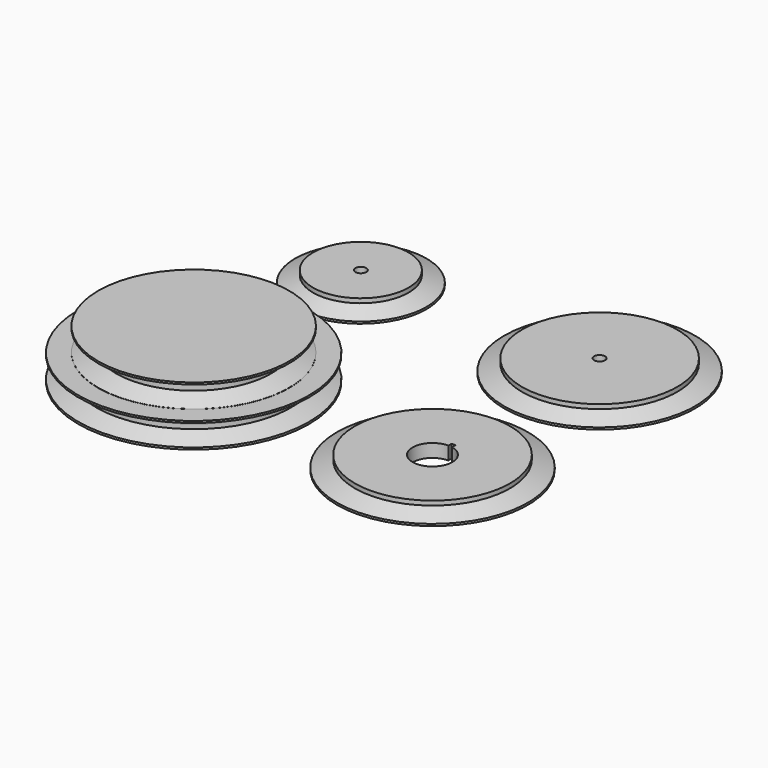
from build123d import *

# Parameters (mm, degrees)
REVOLVE_ONTO_SKETCH_ROLL_ANGLE       = 90
REVOLVE002_ONTO_SKETCH001_ROLL_ANGLE = 90
REVOLVE003_ONTO_SKETCH003_ROLL_ANGLE = 90
REVOLVE004_ONTO_SKETCH002_ROLL_ANGLE = 90
CYLINDER002_R                        = 49
CYLINDER002_DEPTH                    = 10
BOX_W                                = 2
BOX_H                                = 12
BOX_DEPTH                            = 20
CYLINDER001_R                        = 10
CYLINDER001_DEPTH                    = 20
REVOLVE006_ONTO_SKETCH004_ROLL_ANGLE = 90
CYLINDER003_R                        = 59
CYLINDER003_DEPTH                    = 10
CYLINDER004_R                        = 10
CYLINDER004_DEPTH                    = 20
BOX001_W                             = 2
BOX001_H                             = 12
BOX001_DEPTH                         = 20
REVOLVE007_ONTO_SKETCH005_ROLL_ANGLE = 90
BOX002_W                             = 2
BOX002_H                             = 12
BOX002_DEPTH                         = 20
CYLINDER005_R                        = 10
CYLINDER005_DEPTH                    = 20
CYLINDER006_R                        = 48.5
CYLINDER006_DEPTH                    = 2
CYLINDER007_R                        = 2.75
CYLINDER007_DEPTH                    = 20
CYLINDER008_R                        = 49
CYLINDER008_DEPTH                    = 10
REVOLVE008_ONTO_SKETCH006_ROLL_ANGLE = 90
CYLINDER009_R                        = 2.75
CYLINDER009_DEPTH                    = 20
CYLINDER010_R                        = 32.5
CYLINDER010_DEPTH                    = 2
CYLINDER012_R                        = 2.75
CYLINDER012_DEPTH                    = 10
CYLINDER011_R                        = 35
CYLINDER011_DEPTH                    = 10
REVOLVE009_ONTO_SKETCH007_ROLL_ANGLE = 90


with BuildPart() as revolve_body:
    # Sketch as drawn → Revolve (revolve)
    with BuildSketch(Plane.XY):
        Polygon((-8, 5.381547), (1, 2), (1, -2), (-8, -5.397897), (-8, -6.40963), (24.991922, -6.40963), (24.991922, 6.336611), (-8, 6.336611), align=None)
    revolve(axis=Axis((24.991922, 6.336611, 0), (0, 1, 0)))


with BuildPart() as revolve_body_1:
    # Revolve onto Sketch roll: moved
    add(revolve_body.part.rotate(Axis((0, 0, 0), (1, 0, 0)), REVOLVE_ONTO_SKETCH_ROLL_ANGLE))


with BuildPart() as revolve_body_2:
    # Revolve onto Sketch placement: moved
    add(revolve_body_1.part)


with BuildPart() as revolve_body_3:
    # Revolve placement: moved
    add(revolve_body_2.part.moved(Location((-25, 0, 11.8))))


with BuildPart() as revolve002:
    # Sketch001 as drawn → Revolve002 (revolve)
    with BuildSketch(Plane.XY):
        Polygon((-8, 5.381547), (1, 2), (1, -2), (-8, -5.397897), (-8, -6.40963), (40, -6.40963), (40, 6.336611), (-8, 6.336611), align=None)
    revolve(axis=Axis((40, 6.336611, 0), (0, 1, 0)))


with BuildPart() as revolve002_1:
    # Revolve002 onto Sketch001 roll: moved
    add(revolve002.part.rotate(Axis((0, 0, 0), (1, 0, 0)), REVOLVE002_ONTO_SKETCH001_ROLL_ANGLE))


with BuildPart() as revolve002_2:
    # Revolve002 onto Sketch001 placement: moved
    add(revolve002_1.part)


with BuildPart() as revolve002_3:
    # Revolve002 placement: moved
    add(revolve002_2.part.moved(Location((-40, 0, 11.8))))


with BuildPart() as revolve003:
    # Sketch003 as drawn → Revolve003 (revolve)
    with BuildSketch(Plane.XY):
        Polygon((-8, 5.381547), (1, 2), (1, -2), (-8, -5.397897), (-8, -6.40963), (40, -6.40963), (40, 6.336611), (-8, 6.336611), align=None)
    revolve(axis=Axis((40, 6.336611, 0), (0, 1, 0)))


with BuildPart() as revolve003_1:
    # Revolve003 onto Sketch003 roll: moved
    add(revolve003.part.rotate(Axis((0, 0, 0), (1, 0, 0)), REVOLVE003_ONTO_SKETCH003_ROLL_ANGLE))


with BuildPart() as revolve003_2:
    # Revolve003 onto Sketch003 placement: moved
    add(revolve003_1.part)


with BuildPart() as revolve003_3:
    # Revolve003 placement: moved
    add(revolve003_2.part.moved(Location((-40, 0, 0))))


with BuildPart() as revolve004:
    # Sketch002 as drawn → Revolve004 (revolve)
    with BuildSketch(Plane.XY):
        Polygon((-8, 5.381547), (1, 2), (1, -2), (-8, -5.397897), (-8, -6.40963), (50, -6.40963), (50, 6.336611), (-8, 6.336611), align=None)
    revolve(axis=Axis((50, 6.336611, 0), (0, 1, 0)))


with BuildPart() as revolve004_1:
    # Revolve004 onto Sketch002 roll: moved
    add(revolve004.part.rotate(Axis((0, 0, 0), (1, 0, 0)), REVOLVE004_ONTO_SKETCH002_ROLL_ANGLE))


with BuildPart() as revolve004_2:
    # Revolve004 onto Sketch002 placement: moved
    add(revolve004_1.part)


with BuildPart() as revolve004_3:
    # Revolve004 placement: moved
    add(revolve004_2.part.moved(Location((-50, 0, 0))))


with BuildPart() as zylinder002:
    # Cylinder002 → Cylinder002 (new body)
    with BuildSketch(Plane.XY.offset(0.2)):
        Circle(CYLINDER002_R)
    extrude(amount=CYLINDER002_DEPTH)


with BuildPart() as obj1:
    # Box → Box (new body)
    with BuildSketch(Plane.XY.offset(-10)):
        with Locations((1, 6)):
            Rectangle(BOX_W, BOX_H)
    extrude(amount=BOX_DEPTH)


with BuildPart() as zylinder001:
    # Cylinder001 → Cylinder001 (new body)
    with BuildSketch(Plane.XY.offset(-10)):
        Circle(CYLINDER001_R)
    extrude(amount=CYLINDER001_DEPTH)


with BuildPart() as cut003:
    # Sketch004 as drawn → Revolve006 (revolve)
    with BuildSketch(Plane.XY):
        Polygon((-8, 5.381547), (1, 2), (1, -2), (-8, -5.397897), (-8, -6.40963), (40, -6.40963), (40, 6.336611), (-8, 6.336611), align=None)
    revolve(axis=Axis((40, 6.336611, 0), (0, 1, 0)))


with BuildPart() as cut003_1:
    # Revolve006 onto Sketch004 roll: moved
    add(cut003.part.rotate(Axis((0, 0, 0), (1, 0, 0)), REVOLVE006_ONTO_SKETCH004_ROLL_ANGLE))


with BuildPart() as cut003_2:
    # Revolve006 onto Sketch004 placement: moved
    add(cut003_1.part)


with BuildPart() as cut003_3:
    # Revolve006 placement: moved
    add(cut003_2.part.moved(Location((-40, 0, 0))))

    # Cut001: cut Zylinder001
    add(zylinder001.part, mode=Mode.SUBTRACT)

    # Cut002: cut obj1
    add(obj1.part, mode=Mode.SUBTRACT)

    # Cut003: cut Zylinder002
    add(zylinder002.part, mode=Mode.SUBTRACT)


with BuildPart() as cut003_4:
    # Cut003 placement: moved
    add(cut003_3.part.moved(Location((120, 0, 0))))


with BuildPart() as zylinder003:
    # Cylinder003 → Cylinder003 (new body)
    with BuildSketch(Plane.XY.offset(0.2)):
        Circle(CYLINDER003_R)
    extrude(amount=CYLINDER003_DEPTH)


with BuildPart() as zylinder004:
    # Cylinder004 → Cylinder004 (new body)
    with BuildSketch(Plane.XY.offset(-10)):
        Circle(CYLINDER004_R)
    extrude(amount=CYLINDER004_DEPTH)


with BuildPart() as fusion002:
    # Box001 → Box001 (new body)
    with BuildSketch(Plane.XY.offset(-10)):
        with Locations((1, 6)):
            Rectangle(BOX001_W, BOX001_H)
    extrude(amount=BOX001_DEPTH)

    # Fusion002: union Zylinder004
    add(zylinder004.part)


with BuildPart() as f_50mm_half:
    # Sketch005 as drawn → Revolve007 (revolve)
    with BuildSketch(Plane.XY):
        Polygon((-8, 5.381547), (1, 2), (1, -2), (-8, -5.397897), (-8, -6.40963), (50, -6.40963), (50, 6.336611), (-8, 6.336611), align=None)
    revolve(axis=Axis((50, 6.336611, 0), (0, 1, 0)))


with BuildPart() as f_50mm_half_1:
    # Revolve007 onto Sketch005 roll: moved
    add(f_50mm_half.part.rotate(Axis((0, 0, 0), (1, 0, 0)), REVOLVE007_ONTO_SKETCH005_ROLL_ANGLE))


with BuildPart() as f_50mm_half_2:
    # Revolve007 onto Sketch005 placement: moved
    add(f_50mm_half_1.part)


with BuildPart() as f_50mm_half_3:
    # Revolve007 placement: moved
    add(f_50mm_half_2.part.moved(Location((-50, 0, 0))))

    # Cut004: cut Fusion002
    add(fusion002.part, mode=Mode.SUBTRACT)

    # Cut005: cut Zylinder003
    add(zylinder003.part, mode=Mode.SUBTRACT)


with BuildPart() as obj2:
    # Box002 → Box002 (new body)
    with BuildSketch(Plane.XY.offset(-10)):
        with Locations((1, 6)):
            Rectangle(BOX002_W, BOX002_H)
    extrude(amount=BOX002_DEPTH)


with BuildPart() as fusion003:
    # Cylinder005 → Cylinder005 (new body)
    with BuildSketch(Plane.XY.offset(-10)):
        Circle(CYLINDER005_R)
    extrude(amount=CYLINDER005_DEPTH)

    # Fusion003: union obj2
    add(obj2.part)


with BuildPart() as dist_40mm:
    # Cylinder006 → Cylinder006 (new body)
    with BuildSketch(Plane.XY.offset(0.2)):
        Circle(CYLINDER006_R)
    extrude(amount=CYLINDER006_DEPTH)

    # Cut006: cut Fusion003
    add(fusion003.part, mode=Mode.SUBTRACT)


with BuildPart() as zylinder007:
    # Cylinder007 → Cylinder007 (new body)
    with BuildSketch(Plane.XY.offset(-10)):
        Circle(CYLINDER007_R)
    extrude(amount=CYLINDER007_DEPTH)


with BuildPart() as zylinder008:
    # Cylinder008 → Cylinder008 (new body)
    with BuildSketch(Plane.XY.offset(0.2)):
        Circle(CYLINDER008_R)
    extrude(amount=CYLINDER008_DEPTH)


with BuildPart() as cut008:
    # Sketch006 as drawn → Revolve008 (revolve)
    with BuildSketch(Plane.XY):
        Polygon((-8, 5.381547), (1, 2), (1, -2), (-8, -5.397897), (-8, -6.40963), (40, -6.40963), (40, 6.336611), (-8, 6.336611), align=None)
    revolve(axis=Axis((40, 6.336611, 0), (0, 1, 0)))


with BuildPart() as cut008_1:
    # Revolve008 onto Sketch006 roll: moved
    add(cut008.part.rotate(Axis((0, 0, 0), (1, 0, 0)), REVOLVE008_ONTO_SKETCH006_ROLL_ANGLE))


with BuildPart() as cut008_2:
    # Revolve008 onto Sketch006 placement: moved
    add(cut008_1.part)


with BuildPart() as cut008_3:
    # Revolve008 placement: moved
    add(cut008_2.part.moved(Location((-40, 0, 0))))

    # Cut007: cut Zylinder008
    add(zylinder008.part, mode=Mode.SUBTRACT)

    # Cut008: cut Zylinder007
    add(zylinder007.part, mode=Mode.SUBTRACT)


with BuildPart() as cut008_4:
    # Cut008 placement: moved
    add(cut008_3.part.moved(Location((120, 105, 0))))


with BuildPart() as zylinder009:
    # Cylinder009 → Cylinder009 (new body)
    with BuildSketch(Plane.XY.offset(-10)):
        Circle(CYLINDER009_R)
    extrude(amount=CYLINDER009_DEPTH)


with BuildPart() as dist_25mm:
    # Cylinder010 → Cylinder010 (new body)
    with BuildSketch(Plane.XY.offset(0.2)):
        Circle(CYLINDER010_R)
    extrude(amount=CYLINDER010_DEPTH)

    # Cut009: cut Zylinder009
    add(zylinder009.part, mode=Mode.SUBTRACT)


with BuildPart() as zylinder012:
    # Cylinder012 → Cylinder012 (new body)
    with BuildSketch(Plane.XY.offset(-7.8)):
        Circle(CYLINDER012_R)
    extrude(amount=CYLINDER012_DEPTH)


with BuildPart() as zylinder011:
    # Cylinder011 → Cylinder011 (new body)
    with BuildSketch(Plane.XY.offset(0.2)):
        Circle(CYLINDER011_R)
    extrude(amount=CYLINDER011_DEPTH)


with BuildPart() as f_25mm_half:
    # Sketch007 as drawn → Revolve009 (revolve)
    with BuildSketch(Plane.XY):
        Polygon((-8, 5.381547), (1, 2), (1, -2), (-8, -5.397897), (-8, -6.40963), (24.991922, -6.40963), (24.991922, 6.336611), (-8, 6.336611), align=None)
    revolve(axis=Axis((24.991922, 6.336611, 0), (0, 1, 0)))


with BuildPart() as f_25mm_half_1:
    # Revolve009 onto Sketch007 roll: moved
    add(f_25mm_half.part.rotate(Axis((0, 0, 0), (1, 0, 0)), REVOLVE009_ONTO_SKETCH007_ROLL_ANGLE))


with BuildPart() as f_25mm_half_2:
    # Revolve009 onto Sketch007 placement: moved
    add(f_25mm_half_1.part)


with BuildPart() as f_25mm_half_3:
    # Revolve009 placement: moved
    add(f_25mm_half_2.part.moved(Location((-25, 0, 0))))

    # Cut010: cut Zylinder011
    add(zylinder011.part, mode=Mode.SUBTRACT)

    # Cut011: cut Zylinder012
    add(zylinder012.part, mode=Mode.SUBTRACT)


with BuildPart() as f_25mm_half_4:
    # Cut011 placement: moved
    add(f_25mm_half_3.part.moved(Location((0, 105, 0))))


solid = Compound([revolve_body_3.part, revolve002_3.part, revolve003_3.part, revolve004_3.part, cut003_4.part, f_50mm_half_3.part, dist_40mm.part, cut008_4.part, dist_25mm.part, f_25mm_half_4.part])
